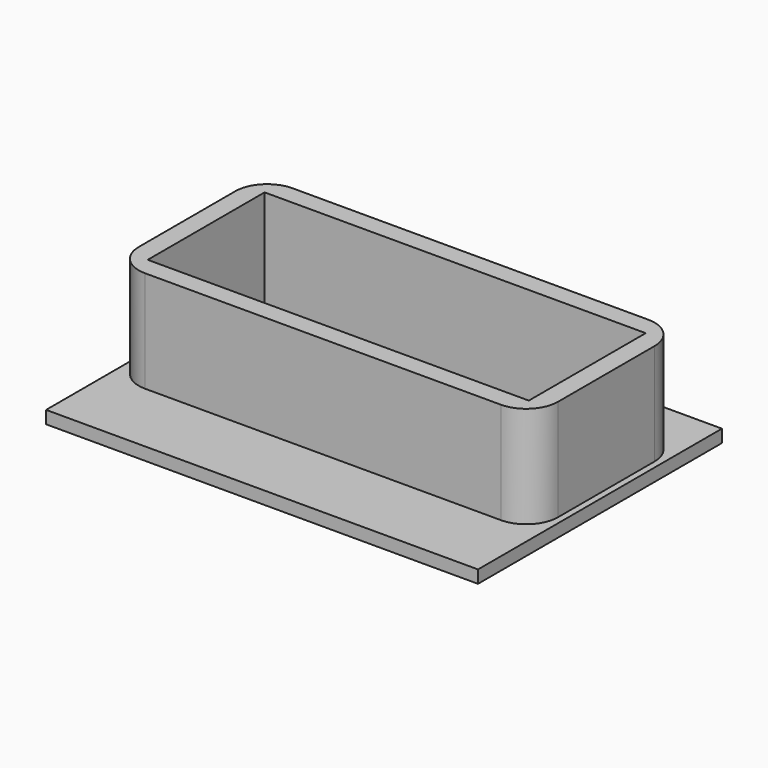
from build123d import *

# Parameters (mm, degrees)
F0_W     = 68
F0_H     = 48
F1_DEPTH = 2
F0_W_2   = 60
F0_H_2   = 23
F2_DEPTH = 18


with BuildPart() as f1:
    # F0 (on Top) → F1 (new body)
    with BuildSketch(Plane.XY):
        with Locations((33, 12)):
            Rectangle(F0_W, F0_H)
        with BuildLine():
            Line((61, 0), (5, 0))
            ThreePointArc((5, 0), (1.464466, 1.464466), (0, 5))
            Line((0, 5), (0, 24))
            ThreePointArc((0, 24), (1.464466, 27.535534), (5, 29))
            Line((5, 29), (61, 29))
            ThreePointArc((61, 29), (64.535534, 27.535534), (66, 24))
            Line((66, 24), (66, 5))
            ThreePointArc((66, 5), (64.535534, 1.464466), (61, 0))
        make_face(mode=Mode.SUBTRACT)
    extrude(amount=F1_DEPTH)

    # F0 (on Top) → F2 (join)
    with BuildSketch(Plane.XY):
        with BuildLine():
            ThreePointArc((0, 5), (1.464466, 1.464466), (5, 0))
            Line((5, 0), (61, 0))
            ThreePointArc((61, 0), (64.535534, 1.464466), (66, 5))
            Line((66, 5), (66, 24))
            ThreePointArc((66, 24), (64.535534, 27.535534), (61, 29))
            Line((61, 29), (5, 29))
            ThreePointArc((5, 29), (1.464466, 27.535534), (0, 24))
            Line((0, 24), (0, 5))
        make_face()
        with Locations((33, 14.5)):
            Rectangle(F0_W_2, F0_H_2, mode=Mode.SUBTRACT)
    extrude(amount=F2_DEPTH)


solid = f1.part
